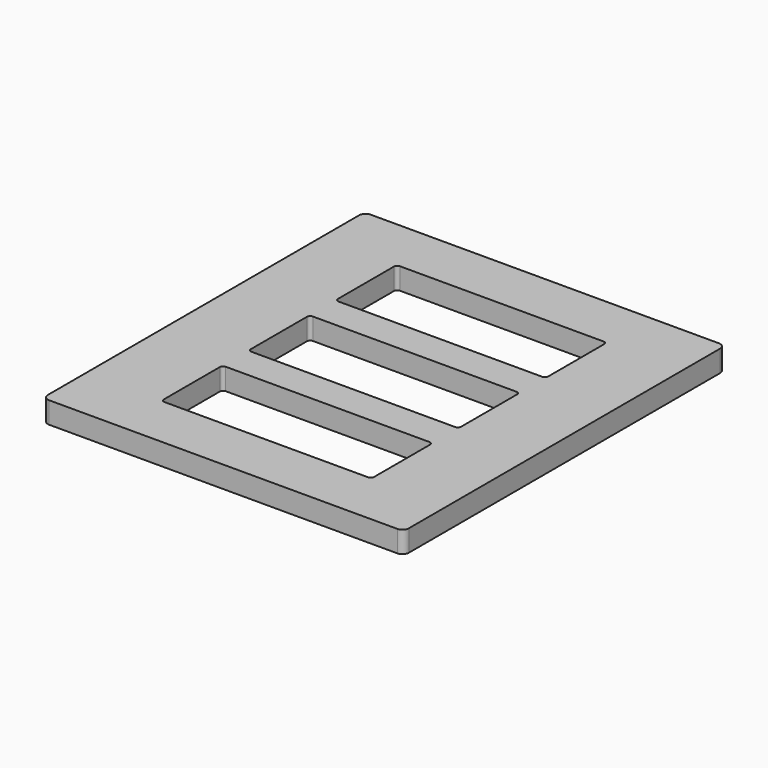
from build123d import *

# Parameters (mm, degrees)
PAD002_DEPTH = 20


with BuildPart() as part:
    # Sketch002 → Pad002 (new body)
    with BuildSketch(Plane.XY):
        with BuildLine():
            Line((11.462484, 11.058947), (334.462484, 11.058947))
            ThreePointArc((340.462484, 5.058947), (338.705124, 9.301588), (334.462484, 11.058947))
            Line((340.462484, 5.058947), (340.462484, -355.941053))
            ThreePointArc((334.462484, -361.941053), (338.705124, -360.183694), (340.462484, -355.941053))
            Line((334.462484, -361.941053), (11.462484, -361.941053))
            ThreePointArc((5.462484, -355.941053), (7.219843, -360.183694), (11.462484, -361.941053))
            Line((5.462484, -355.941053), (5.462484, 5.058947))
            ThreePointArc((11.462484, 11.058947), (7.219843, 9.301588), (5.462484, 5.058947))
        make_face()
        with BuildLine():
            Line((78.462484, -38.941053), (267.462484, -38.941053))
            ThreePointArc((270.462484, -41.941053), (269.583804, -39.819733), (267.462484, -38.941053))
            Line((270.462484, -41.941053), (270.462484, -106.941053))
            ThreePointArc((267.462484, -109.941053), (269.583804, -109.062373), (270.462484, -106.941053))
            Line((267.462484, -109.941053), (78.462484, -109.941053))
            ThreePointArc((75.462484, -106.941053), (76.341163, -109.062373), (78.462484, -109.941053))
            Line((75.462484, -106.941053), (75.462484, -41.941053))
            ThreePointArc((78.462484, -38.941053), (76.341163, -39.819733), (75.462484, -41.941053))
        make_face(mode=Mode.SUBTRACT)
        with BuildLine():
            Line((78.462484, -139.941053), (267.462484, -139.941053))
            ThreePointArc((270.462484, -142.941053), (269.583804, -140.819733), (267.462484, -139.941053))
            Line((270.462484, -142.941053), (270.462484, -207.941053))
            ThreePointArc((267.462484, -210.941053), (269.583804, -210.062373), (270.462484, -207.941053))
            Line((267.462484, -210.941053), (78.462484, -210.941053))
            ThreePointArc((75.462484, -207.941053), (76.341163, -210.062373), (78.462484, -210.941053))
            Line((75.462484, -207.941053), (75.462484, -142.941053))
            ThreePointArc((78.462484, -139.941053), (76.341163, -140.819733), (75.462484, -142.941053))
        make_face(mode=Mode.SUBTRACT)
        with BuildLine():
            Line((78.462484, -240.941053), (267.462484, -240.941053))
            ThreePointArc((270.462484, -243.941053), (269.583804, -241.819733), (267.462484, -240.941053))
            Line((270.462484, -243.941053), (270.462484, -308.941053))
            ThreePointArc((267.462484, -311.941053), (269.583804, -311.062373), (270.462484, -308.941053))
            Line((267.462484, -311.941053), (78.462484, -311.941053))
            ThreePointArc((75.462484, -308.941053), (76.341163, -311.062373), (78.462484, -311.941053))
            Line((75.462484, -308.941053), (75.462484, -243.941053))
            ThreePointArc((78.462484, -240.941053), (76.341163, -241.819733), (75.462484, -243.941053))
        make_face(mode=Mode.SUBTRACT)
    extrude(amount=-PAD002_DEPTH)


solid = part.part
